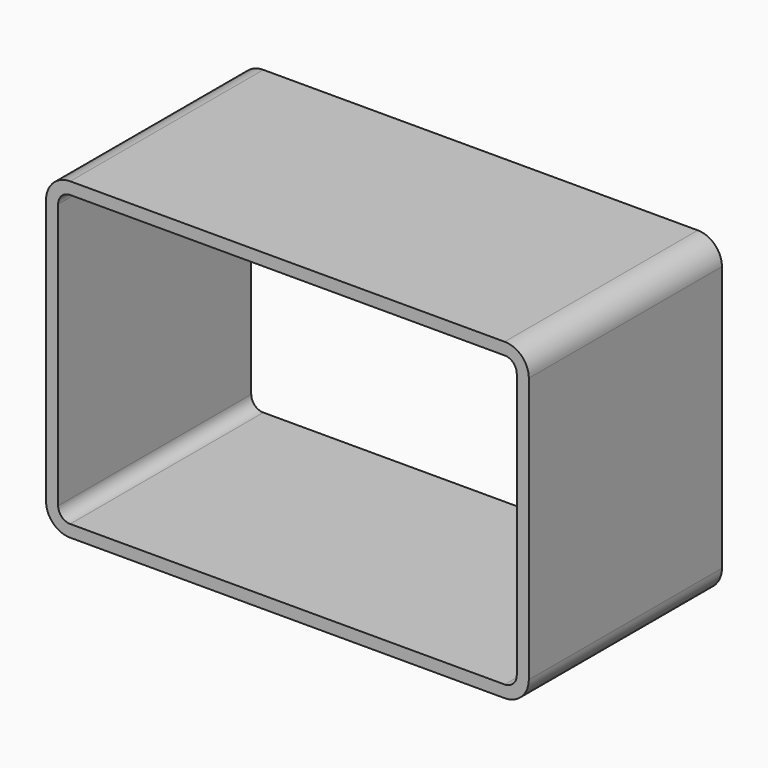
from build123d import *

# Parameters (mm, degrees)
F0_W     = 100
F0_H     = 65
F1_DEPTH = 50
F2_R     = 5
F3_T     = -2.5


with BuildPart() as f1:
    # F0 (on Front) → F1 (new body)
    with BuildSketch(Plane.XZ):
        Rectangle(F0_W, F0_H)
    extrude(amount=F1_DEPTH)

    # F2
    f2_edges = [f1.edges().sort_by_distance(p)[0] for p in [
        (-50, -25, 32.5),
        (-50, -25, -32.5),
        (50, -25, 32.5),
        (50, -25, -32.5),
    ]]
    fillet(f2_edges, radius=F2_R)

    # F3
    f3_openings = [f1.faces().sort_by_distance(p)[0] for p in [
        (0, -50, 0),
        (0, 0, 0),
    ]]
    offset(amount=F3_T, openings=f3_openings)


solid = f1.part
